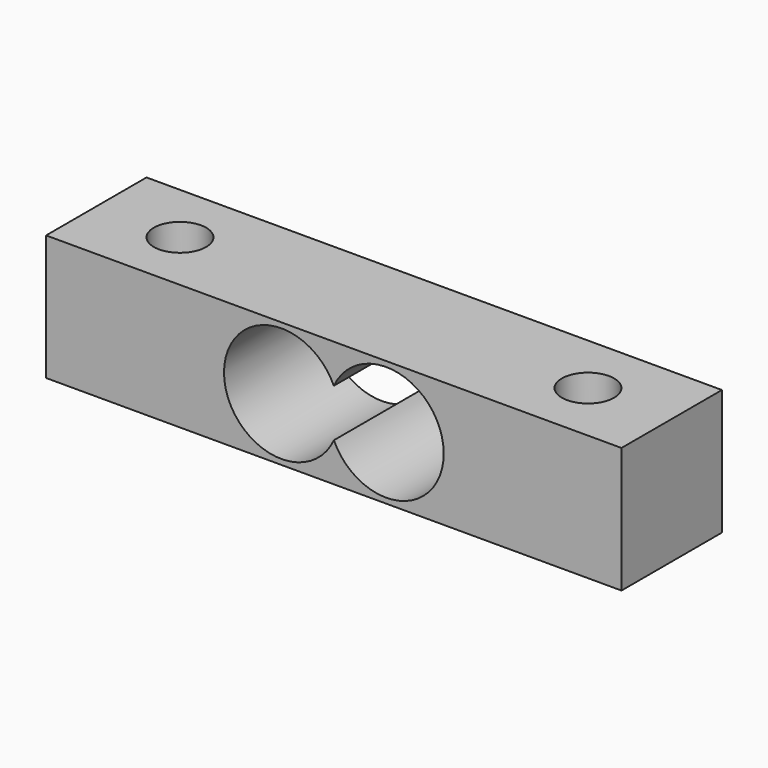
from build123d import *

# Parameters (mm, degrees)
F0_W     = 55
F0_H     = 12
F1_DEPTH = 6
F2_R     = 2.5
F3_DEPTH = 12.001
F5_DEPTH = 25


with BuildPart() as f1:
    # F0 (on Top) → F1 (new body, symmetric)
    with BuildSketch(Plane.XY):
        Rectangle(F0_W, F0_H)
    extrude(amount=F1_DEPTH, both=True)

    # F2 (on face) → F3 (cut, through all)
    with BuildSketch(Plane.XY.offset(6)):
        with Locations((-19.5, 0)):
            Circle(F2_R)
        with Locations((19.5, 0)):
            Circle(F2_R)
    extrude(amount=-F3_DEPTH, mode=Mode.SUBTRACT)

    # F4 (on face) → F5 (cut)
    with BuildSketch(Plane.XZ.offset(6)):
        with BuildLine():
            ThreePointArc((0.006891, 2.291288), (-10.493109, 0), (0.006891, -2.291288))
            ThreePointArc((0.006891, -2.291288), (10.506891, 0), (0.006891, 2.291288))
        make_face()
    extrude(amount=-F5_DEPTH, mode=Mode.SUBTRACT)


solid = f1.part
